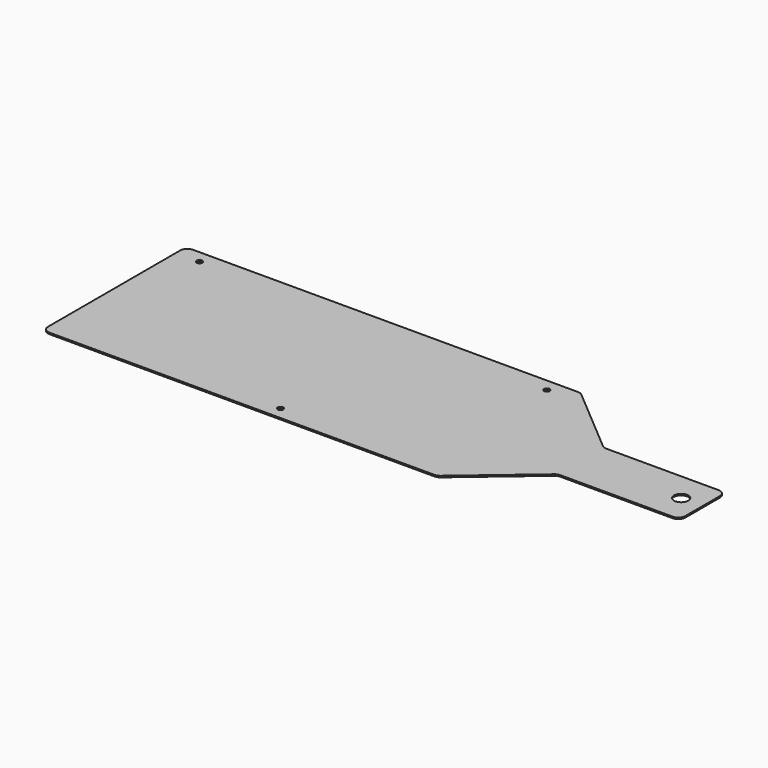
from build123d import *

# Parameters (mm, degrees)
SKETCH_R   = 5
SKETCH_R_2 = 2
PAD_DEPTH  = 1
FILLET_R   = 5


with BuildPart() as part:
    # Sketch → Pad (new body)
    with BuildSketch(Plane.XY):
        Polygon((0, 0), (275, 0), (325, 42.5), (410, 42.5), (410, 82.5), (325, 82.5), (275, 125), (0, 125), align=None)
        with Locations((395, 62.5)):
            Circle(SKETCH_R, mode=Mode.SUBTRACT)
        with Locations((258.5, 116.25)):
            Circle(SKETCH_R_2, mode=Mode.SUBTRACT)
        with Locations((158.9, 8.75)):
            Circle(SKETCH_R_2, mode=Mode.SUBTRACT)
        with Locations((16.5, 116.25)):
            Circle(SKETCH_R_2, mode=Mode.SUBTRACT)
    extrude(amount=PAD_DEPTH)

    # Fillet
    fillet_edges = [part.edges().sort_by_distance(p)[0] for p in [
        (0, 0, 0.5),
        (275, 0, 0.5),
        (325, 42.5, 0.5),
        (410, 42.5, 0.5),
        (410, 82.5, 0.5),
        (325, 82.5, 0.5),
        (275, 125, 0.5),
        (0, 125, 0.5),
    ]]
    fillet(fillet_edges, radius=FILLET_R)


solid = part.part
